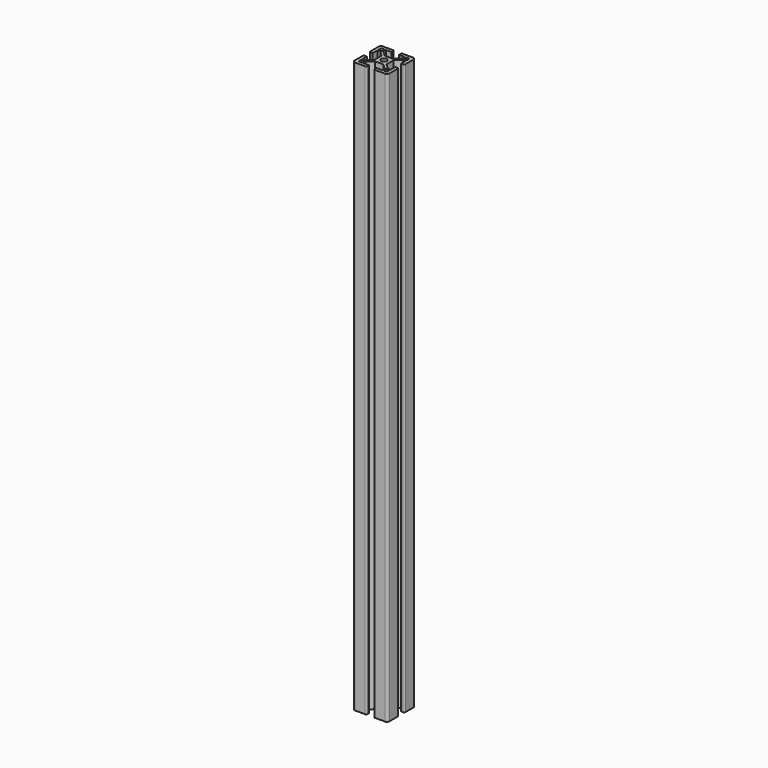
from build123d import *

# Parameters (mm, degrees)
SKETCH_R  = 2.5
PAD_DEPTH = 245


with BuildPart() as part:
    # Sketch → Pad (new body, symmetric)
    with BuildSketch(Plane.XY):
        with BuildLine():
            Line((14, 3.15), (12.2, 3.15))
            Line((12.2, 3.15), (12.2, 8.15))
            Line((12.2, 8.15), (9.634924, 8.15))
            Line((9.634924, 8.15), (5.2, 3.715076))
            Line((5.2, 3.715076), (5.2, -3.715076))
            Line((5.2, -3.715076), (9.634924, -8.15))
            Line((9.634924, -8.15), (12.2, -8.15))
            Line((12.2, -8.15), (12.2, -3.15))
            Line((12.2, -3.15), (14, -3.15))
            ThreePointArc((15, -4.15), (14.707107, -3.442893), (14, -3.15))
            Line((15, -4.15), (15, -13))
            ThreePointArc((13, -15), (14.414214, -14.414214), (15, -13))
            Line((13, -15), (4.15, -15))
            ThreePointArc((3.15, -14), (3.442893, -14.707107), (4.15, -15))
            Line((3.15, -14), (3.15, -12.2))
            Line((3.15, -12.2), (8.15, -12.2))
            Line((8.15, -12.2), (8.15, -9.634924))
            Line((8.15, -9.634924), (3.715076, -5.2))
            Line((3.715076, -5.2), (-3.715076, -5.2))
            Line((-3.715076, -5.2), (-8.15, -9.634924))
            Line((-8.15, -9.634924), (-8.15, -12.2))
            Line((-8.15, -12.2), (-3.15, -12.2))
            Line((-3.15, -12.2), (-3.15, -14))
            ThreePointArc((-4.15, -15), (-3.442893, -14.707107), (-3.15, -14))
            Line((-4.15, -15), (-13, -15))
            ThreePointArc((-15, -13), (-14.414214, -14.414214), (-13, -15))
            Line((-15, -4.15), (-15, -13))
            ThreePointArc((-14, -3.15), (-14.707107, -3.442893), (-15, -4.15))
            Line((-12.2, -3.15), (-14, -3.15))
            Line((-12.2, -8.15), (-12.2, -3.15))
            Line((-12.2, -8.15), (-9.634924, -8.15))
            Line((-5.2, -3.715076), (-9.634924, -8.15))
            Line((-5.2, 3.715076), (-5.2, -3.715076))
            Line((-9.634924, 8.15), (-5.2, 3.715076))
            Line((-12.2, 8.15), (-9.634924, 8.15))
            Line((-12.2, 3.15), (-12.2, 8.15))
            Line((-14, 3.15), (-12.2, 3.15))
            ThreePointArc((-15, 4.15), (-14.707107, 3.442893), (-14, 3.15))
            Line((-15, 13), (-15, 4.15))
            ThreePointArc((-13, 15), (-14.414214, 14.414214), (-15, 13))
            Line((-4.15, 15), (-13, 15))
            ThreePointArc((-3.15, 14), (-3.442893, 14.707107), (-4.15, 15))
            Line((-3.15, 12.2), (-3.15, 14))
            Line((-8.15, 12.2), (-3.15, 12.2))
            Line((-8.15, 9.634924), (-8.15, 12.2))
            Line((-3.715076, 5.2), (-8.15, 9.634924))
            Line((3.715076, 5.2), (-3.715076, 5.2))
            Line((8.15, 9.634924), (3.715076, 5.2))
            Line((8.15, 12.2), (8.15, 9.634924))
            Line((3.15, 12.2), (8.15, 12.2))
            Line((3.15, 14), (3.15, 12.2))
            ThreePointArc((4.15, 15), (3.442893, 14.707107), (3.15, 14))
            Line((13, 15), (4.15, 15))
            ThreePointArc((15, 13), (14.414214, 14.414214), (13, 15))
            Line((15, 4.15), (15, 13))
            ThreePointArc((14, 3.15), (14.707107, 3.442893), (15, 4.15))
        make_face()
        Circle(SKETCH_R, mode=Mode.SUBTRACT)
        with BuildLine():
            Line((9.2, 12.2), (11.2, 12.2))
            ThreePointArc((12.2, 11.2), (11.907107, 11.907107), (11.2, 12.2))
            Line((12.2, 11.2), (12.2, 9.2))
            Line((12.2, 9.2), (9.2, 9.2))
            Line((9.2, 9.2), (9.2, 12.2))
        make_face(mode=Mode.SUBTRACT)
        with BuildLine():
            ThreePointArc((-11.2, 12.2), (-11.907107, 11.907107), (-12.2, 11.2))
            Line((-12.2, 9.2), (-12.2, 11.2))
            Line((-9.2, 9.2), (-12.2, 9.2))
            Line((-9.2, 12.2), (-9.2, 9.2))
            Line((-11.2, 12.2), (-9.2, 12.2))
        make_face(mode=Mode.SUBTRACT)
        with BuildLine():
            ThreePointArc((-12.2, -11.2), (-11.907107, -11.907107), (-11.2, -12.2))
            Line((-9.2, -12.2), (-11.2, -12.2))
            Line((-9.2, -9.2), (-9.2, -12.2))
            Line((-12.2, -9.2), (-9.2, -9.2))
            Line((-12.2, -11.2), (-12.2, -9.2))
        make_face(mode=Mode.SUBTRACT)
        with BuildLine():
            ThreePointArc((11.2, -12.2), (11.907107, -11.907107), (12.2, -11.2))
            Line((12.2, -11.2), (12.2, -9.2))
            Line((12.2, -9.2), (9.2, -9.2))
            Line((9.2, -9.2), (9.2, -12.2))
            Line((9.2, -12.2), (11.2, -12.2))
        make_face(mode=Mode.SUBTRACT)
    extrude(amount=PAD_DEPTH, both=True)


solid = part.part
